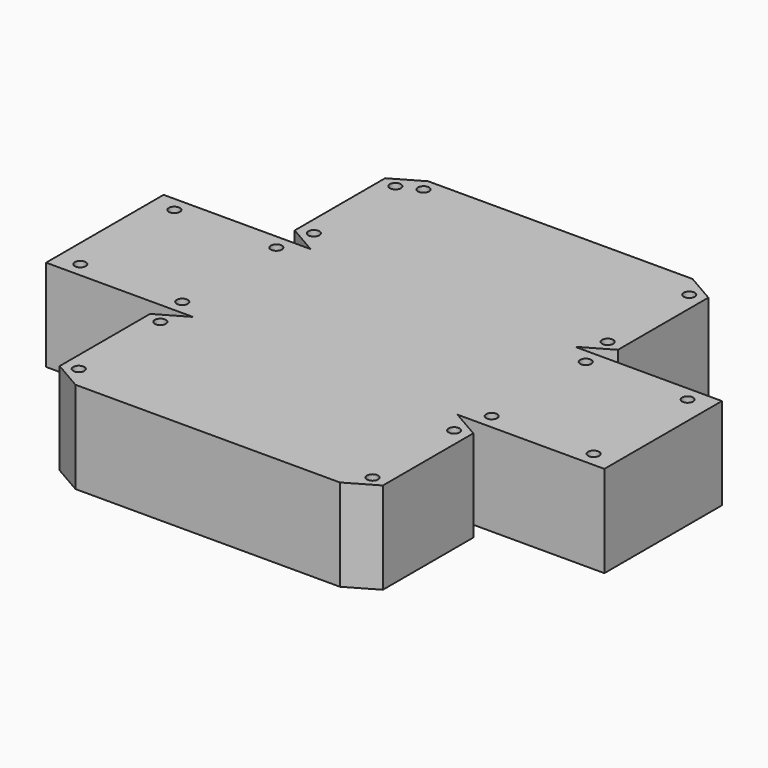
from build123d import *

# Parameters (mm, degrees)
F0_W     = 40
F0_H     = 40
F0_R     = 1.5
F1_DEPTH = 25


with BuildPart() as f1:
    # F0 (on Top) → F1 (new body)
    with BuildSketch(Plane.XY):
        with Locations((-56, 0)):
            Rectangle(F0_W, F0_H)
        with Locations((-69.8812, -16)):
            Circle(F0_R, mode=Mode.SUBTRACT)
        with Locations((-42.1188, -16)):
            Circle(F0_R, mode=Mode.SUBTRACT)
        with Locations((-69.8812, 16)):
            Circle(F0_R, mode=Mode.SUBTRACT)
        with Locations((-42.1188, 16)):
            Circle(F0_R, mode=Mode.SUBTRACT)
        Polygon((0, 20), (-36, 20), (-36, -20), (0, -20), (36, -20), (36, 20), align=None)
        Polygon((0, -20), (-36, -20), (-36, -60), (0, -60), (36, -60), (36, -20), align=None)
        Polygon((-36, -60), (-36, -20), (-44, -24.618802), (-44, -55.381198), align=None)
        with Locations((-40, -53.881198)):
            Circle(F0_R, mode=Mode.SUBTRACT)
        with Locations((-40, -26.118802)):
            Circle(F0_R, mode=Mode.SUBTRACT)
        Polygon((44, -24.618802), (36, -20), (36, -60), (44, -55.381198), align=None)
        with Locations((40, -53.881198)):
            Circle(F0_R, mode=Mode.SUBTRACT)
        with Locations((40, -26.118802)):
            Circle(F0_R, mode=Mode.SUBTRACT)
        Polygon((-36, 60), (-36, 20), (0, 20), (36, 20), (36, 60), (0, 60), align=None)
        with Locations((-34.410123, 56.457806)):
            Circle(F0_R, mode=Mode.SUBTRACT)
        Polygon((-44, 24.618802), (-36, 20), (-36, 60), (-44, 55.381198), align=None)
        with Locations((-40, 26.118802)):
            Circle(F0_R, mode=Mode.SUBTRACT)
        with Locations((-40, 53.881198)):
            Circle(F0_R, mode=Mode.SUBTRACT)
        with Locations((56, 0)):
            Rectangle(F0_W, F0_H)
        with Locations((42.1188, -16)):
            Circle(F0_R, mode=Mode.SUBTRACT)
        with Locations((69.8812, -16)):
            Circle(F0_R, mode=Mode.SUBTRACT)
        with Locations((42.1188, 16)):
            Circle(F0_R, mode=Mode.SUBTRACT)
        with Locations((69.8812, 16)):
            Circle(F0_R, mode=Mode.SUBTRACT)
        Polygon((36, 60), (36, 20), (44, 24.618802), (44, 55.381198), align=None)
        with Locations((40, 26.118802)):
            Circle(F0_R, mode=Mode.SUBTRACT)
        with Locations((40, 53.881198)):
            Circle(F0_R, mode=Mode.SUBTRACT)
    extrude(amount=F1_DEPTH)


solid = f1.part
